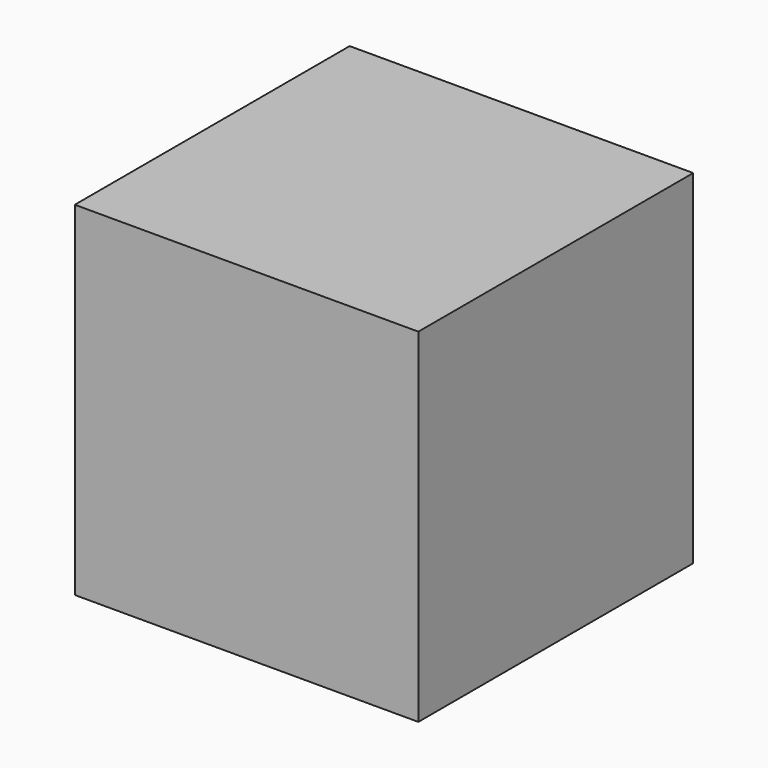
from build123d import *

# Parameters (mm, degrees)
F0_W     = 203.2
F0_H     = 203.2
F1_DEPTH = 203.2
F2_R     = 25.4
F3_DEPTH = 203.2


with BuildPart() as f1:
    # F0 (on Front) → F1 (new body)
    with BuildSketch(Plane.XZ):
        with Locations((101.6, 101.6)):
            Rectangle(F0_W, F0_H)
    extrude(amount=F1_DEPTH)

    # F2 (on face) → F3 (cut)
    with BuildSketch(Plane(origin=(0, 0, 0), x_dir=(0, -1, 0), z_dir=(-1, 0, 0))):
        with Locations((102.335267, 103.037104)):
            Circle(F2_R)
    extrude(amount=F3_DEPTH, mode=Mode.SUBTRACT)


solid = f1.part
